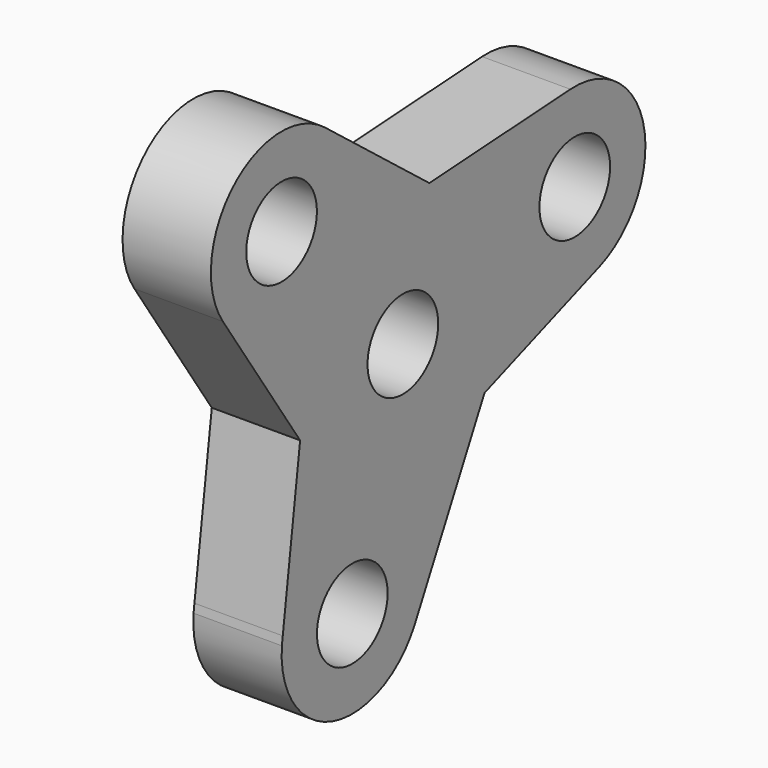
from build123d import *

# Parameters (mm, degrees)
F0_R     = 10
F1_DEPTH = 20


with BuildPart() as f1:
    # F0 (on Right) → F1 (new body)
    with BuildSketch(Plane.YZ):
        with BuildLine():
            Line((7.481455, 29.052157), (-22.012425, 52.10852))
            ThreePointArc((-22.012425, 52.10852), (-47.949661, 50.997752), (-50.938718, 25.20939))
            Line((-50.938718, 25.20939), (-29.07978, -7.373356))
            ThreePointArc((-29.07978, -7.373356), (-21.17372, 21.252614), (7.481455, 29.052157))
        make_face()
        with Locations((-34.330039, 36.351732)):
            Circle(F0_R, mode=Mode.SUBTRACT)
        with BuildLine():
            Line((47.414482, 31.516835), (7.481455, 29.052157))
            ThreePointArc((7.481455, 29.052157), (23.711217, 18.378742), (30, 0))
            ThreePointArc((30, 0), (28.223022, -10.17158), (23.102597, -19.138182))
            Line((23.102597, -19.138182), (55.544301, -7.218058))
            ThreePointArc((55.544301, -7.218058), (68.220071, 15.662983), (47.414482, 31.516835))
        make_face()
        with Locations((48.646543, 11.55482)):
            Circle(F0_R, mode=Mode.SUBTRACT)
        with BuildLine():
            ThreePointArc((23.102597, -19.138182), (-6.598065, -29.265432), (-29.07978, -7.373356))
            Line((-29.07978, -7.373356), (-33.994642, -44.332917))
            Line((-33.994642, -44.332917), (-34.244702, -46.213358))
            ThreePointArc((-34.244702, -46.213358), (-19.868232, -67.120566), (3.443665, -57.103095))
            Line((3.443665, -57.103095), (23.102597, -19.138182))
        make_face()
        with Locations((-14.316504, -47.906552)):
            Circle(F0_R, mode=Mode.SUBTRACT)
        with BuildLine():
            ThreePointArc((30, 0), (23.711217, 18.378742), (7.481455, 29.052157))
            ThreePointArc((7.481455, 29.052157), (-21.17372, 21.252614), (-29.07978, -7.373356))
            ThreePointArc((-29.07978, -7.373356), (-6.598065, -29.265432), (23.102597, -19.138182))
            ThreePointArc((23.102597, -19.138182), (28.223022, -10.17158), (30, 0))
        make_face()
        Circle(F0_R, mode=Mode.SUBTRACT)
    extrude(amount=F1_DEPTH)


solid = f1.part
